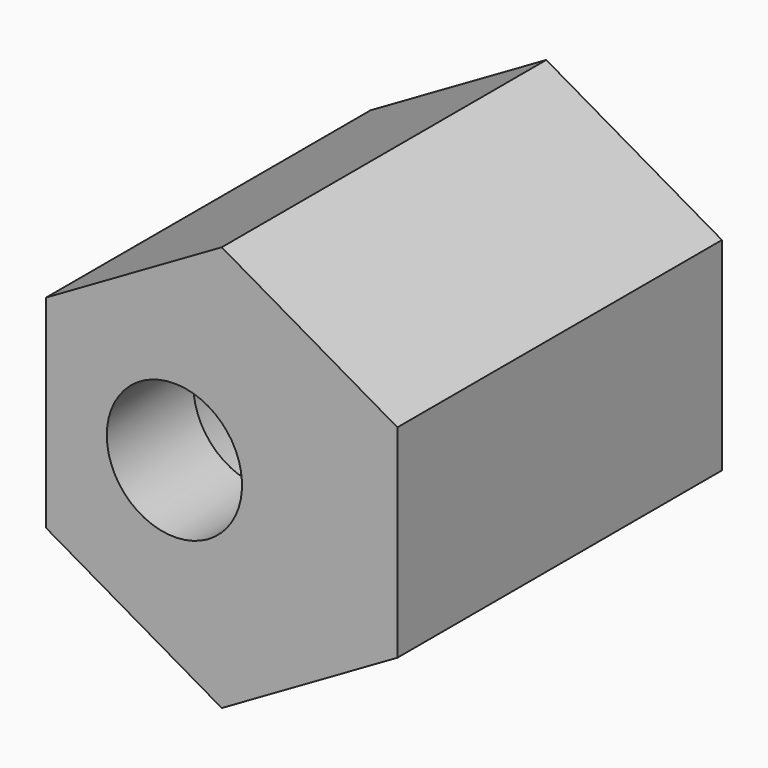
from build123d import *

# Parameters (mm, degrees)
F1_DEPTH = 30
F2_DEPTH = 22


with BuildPart() as f1:
    # F0 (on Front) → F1 (new body)
    with BuildSketch(Plane.XZ):
        Polygon((0, 15), (-12.990381, 7.5), (-12.990381, -7.5), (0, -15), (12.990381, -7.5), (12.990381, 7.5), align=None)
        with BuildLine():
            ThreePointArc((-9.5, 0), (0, 9.5), (9.5, 0))
            ThreePointArc((9.5, 0), (0, -9.5), (-9.5, 0))
        make_face(mode=Mode.SUBTRACT)
        with BuildLine():
            ThreePointArc((-9.5, 0), (0, -9.5), (9.5, 0))
            ThreePointArc((9.5, 0), (0, 9.5), (-9.5, 0))
        make_face()
        with BuildLine():
            ThreePointArc((1.5, 0), (-3.5, -5), (-8.5, 0))
            ThreePointArc((-8.5, 0), (-3.5, 5), (1.5, 0))
        make_face(mode=Mode.SUBTRACT)
    extrude(amount=F1_DEPTH)


with BuildPart() as f2:
    # F0 (on Front) → F2 (new body)
    with BuildSketch(Plane.XZ):
        with BuildLine():
            ThreePointArc((-9.5, 0), (0, -9.5), (9.5, 0))
            ThreePointArc((9.5, 0), (0, 9.5), (-9.5, 0))
        make_face()
        with BuildLine():
            ThreePointArc((1.5, 0), (-3.5, -5), (-8.5, 0))
            ThreePointArc((-8.5, 0), (-3.5, 5), (1.5, 0))
        make_face(mode=Mode.SUBTRACT)
        with BuildLine():
            ThreePointArc((1.5, 0), (-3.5, 5), (-8.5, 0))
            ThreePointArc((-8.5, 0), (-3.5, -5), (1.5, 0))
        make_face()
    extrude(amount=F2_DEPTH)


with BuildPart() as f1_1:
    add(f1.part)

    # F3: cut F2
    add(f2.part, mode=Mode.SUBTRACT)


solid = f1_1.part
